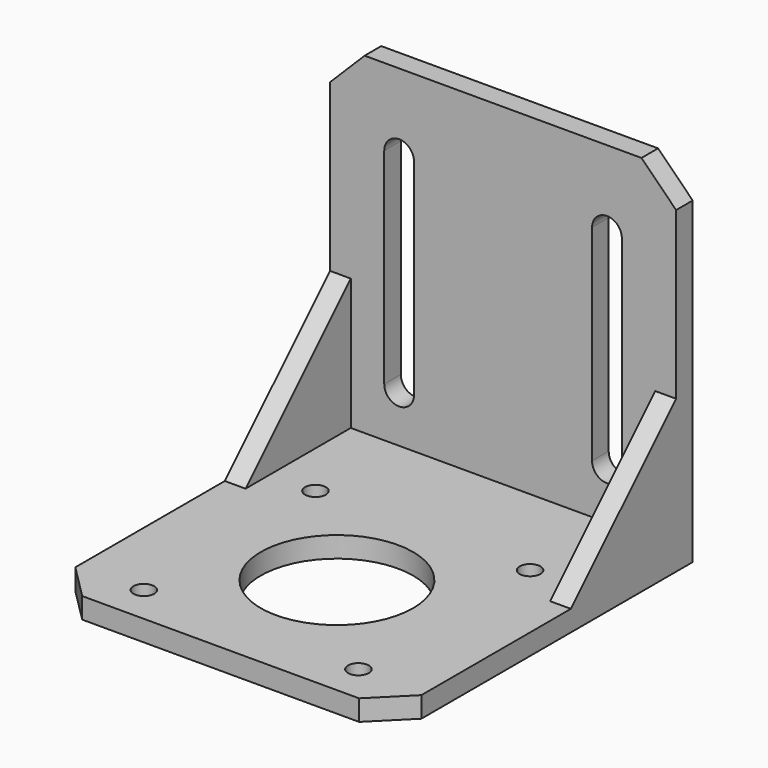
from build123d import *

# Parameters (mm, degrees)
SKETCH_W             = 50
SKETCH_H             = 51
PAD_DEPTH            = 3
CHAMFER_SIZE         = 5
SKETCH001_W          = 50
SKETCH001_H          = 51
PAD001_DEPTH         = 3
CHAMFER001_SIZE      = 5
POCKET_DEPTH         = 207.576403
SKETCH003_R          = 1.5
SKETCH003_R_2        = 11
POCKET001_DEPTH      = 0.001
POCKET001_DEPTH_BACK = -51.001
PAD002_DEPTH         = 25
POCKET002_DEPTH      = 22


with BuildPart() as part:
    # Sketch → Pad (new body)
    with BuildSketch(Plane.XY):
        Rectangle(SKETCH_W, SKETCH_H)
    extrude(amount=PAD_DEPTH)

    # Chamfer
    chamfer_edges = [part.edges().sort_by_distance(p)[0] for p in [
        (25, -25.5, 1.5),
        (-25, -25.5, 1.5),
    ]]
    chamfer(chamfer_edges, length=CHAMFER_SIZE)

    # Sketch001 (on Face4 of Chamfer) → Pad001 (join)
    with BuildSketch(Plane(origin=(0, 25.5, 0), x_dir=(-1, 0, 0), z_dir=(0, 1, 0))):
        with Locations((0, 25.5)):
            Rectangle(SKETCH001_W, SKETCH001_H)
    extrude(amount=PAD001_DEPTH)

    # Chamfer001
    chamfer001_edges = [part.edges().sort_by_distance(p)[0] for p in [
        (-25, 27, 51),
        (25, 27, 51),
    ]]
    chamfer(chamfer001_edges, length=CHAMFER001_SIZE)

    # Sketch002 → Pocket (cut, through all)
    with BuildSketch(Plane.XZ):
        with BuildLine():
            ThreePointArc((-12.865, 39.85), (-15.015, 42), (-17.165, 39.85))
            Line((-17.165, 39.85), (-17.165, 10.15))
            ThreePointArc((-17.165, 10.15), (-15.015, 8), (-12.865, 10.15))
            Line((-12.865, 39.85), (-12.865, 10.15))
        make_face()
    pocket = extrude(amount=-POCKET_DEPTH, mode=Mode.SUBTRACT)

    # Mirrored: Pocket across Sketch002 V_Axis
    add(pocket.mirror(Plane(origin=(0, 0, 0), x_dir=(0, -1, 0), z_dir=(1, 0, 0))), mode=Mode.SUBTRACT)

    # Sketch003 → Pocket001 (cut, two sides)
    with BuildSketch(Plane.XY) as pocket001_sk:
        with Locations((-15.5, 11)):
            Circle(SKETCH003_R)
        with Locations((15.5, 11)):
            Circle(SKETCH003_R)
        with Locations((15.5, -20)):
            Circle(SKETCH003_R)
        with Locations((-15.5, -20)):
            Circle(SKETCH003_R)
        with Locations((0, -4.5)):
            Circle(SKETCH003_R_2)
    extrude(amount=-POCKET001_DEPTH, mode=Mode.SUBTRACT)
    extrude(pocket001_sk.sketch, amount=-POCKET001_DEPTH_BACK, mode=Mode.SUBTRACT)

    # Sketch004 → Pad002 (join, symmetric)
    with BuildSketch(Plane.YZ):
        Polygon((25.5, 22), (6.5, 3), (25.5, 3), align=None)
    extrude(amount=PAD002_DEPTH, both=True)

    # Sketch004 → Pocket002 (cut, symmetric)
    with BuildSketch(Plane.YZ):
        Polygon((25.5, 22), (6.5, 3), (25.5, 3), align=None)
    extrude(amount=POCKET002_DEPTH, both=True, mode=Mode.SUBTRACT)


solid = part.part
